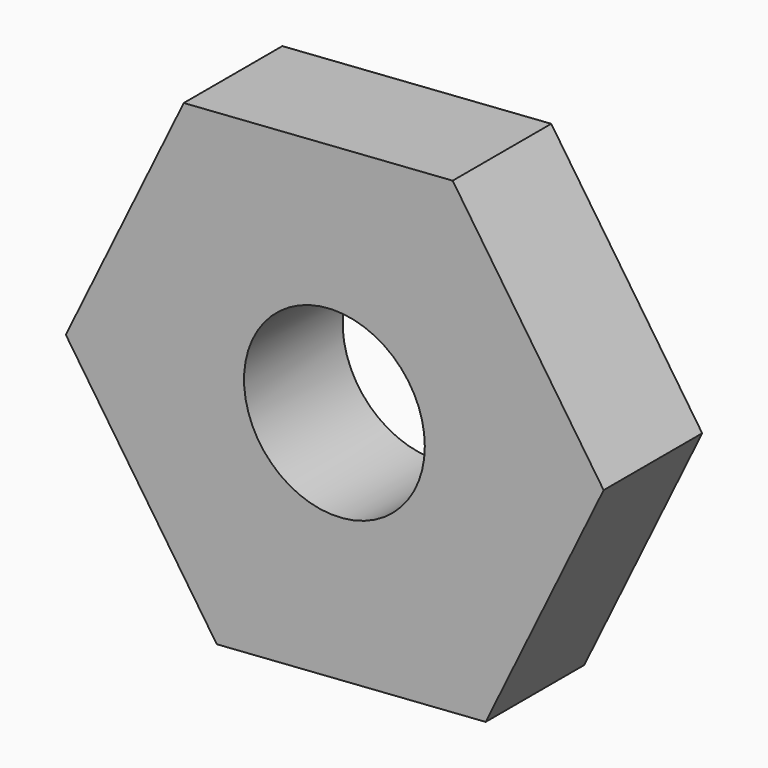
from build123d import *

# Parameters (mm, degrees)
F1_R     = 18.635563
F2_DEPTH = 25.4


with BuildPart() as f2:
    # F1 (on face) → F2 (new body)
    with BuildSketch(Plane.XZ):
        Polygon((-58.801298, -5.601722), (-3.359349, -1.67458), (20.960622, 48.303127), (-10.161357, 94.353693), (-65.603307, 90.426552), (-89.923277, 40.448844), align=None)
        with Locations((-34.542546, 44.268981)):
            Circle(F1_R, mode=Mode.SUBTRACT)
    extrude(amount=F2_DEPTH)


solid = f2.part
